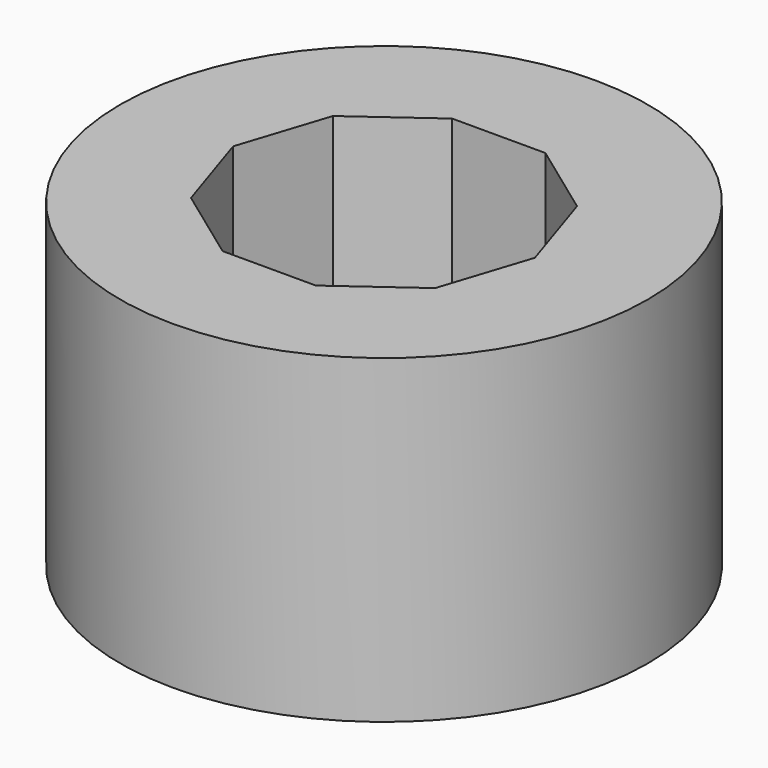
from build123d import *

# Parameters (mm, degrees)
F0_R     = 37.868067
F1_DEPTH = 45.974
F3_DEPTH = 25.4
F4_DEPTH = 20.575


with BuildPart() as f1:
    # F0 (on Top) → F1 (new body)
    with BuildSketch(Plane.XY):
        Circle(F0_R)
    extrude(amount=F1_DEPTH)

    # F2 (on face) → F3 (cut)
    with BuildSketch(Plane.XY.offset(45.974)):
        Polygon((6.691301, 20.593707), (-6.691301, 20.593707), (-17.518053, 12.727611), (-21.653504, 0), (-17.518053, -12.727611), (-6.691301, -20.593707), (6.691301, -20.593707), (17.518053, -12.727611), (21.653504, 0), (17.518053, 12.727611), align=None)
    extrude(amount=-F3_DEPTH, mode=Mode.SUBTRACT)

    # F3_face (on face) → F4 (cut, through all)
    with BuildSketch(Plane.XY.offset(20.574)):
        Polygon((21.653504, 0), (17.518053, 12.727611), (6.691301, 20.593707), (-6.691301, 20.593707), (-17.518053, 12.727611), (-21.653504, 0), (-17.518053, -12.727611), (-6.691301, -20.593707), (6.691301, -20.593707), (17.518053, -12.727611), align=None)
    extrude(amount=-F4_DEPTH, mode=Mode.SUBTRACT)


solid = f1.part
